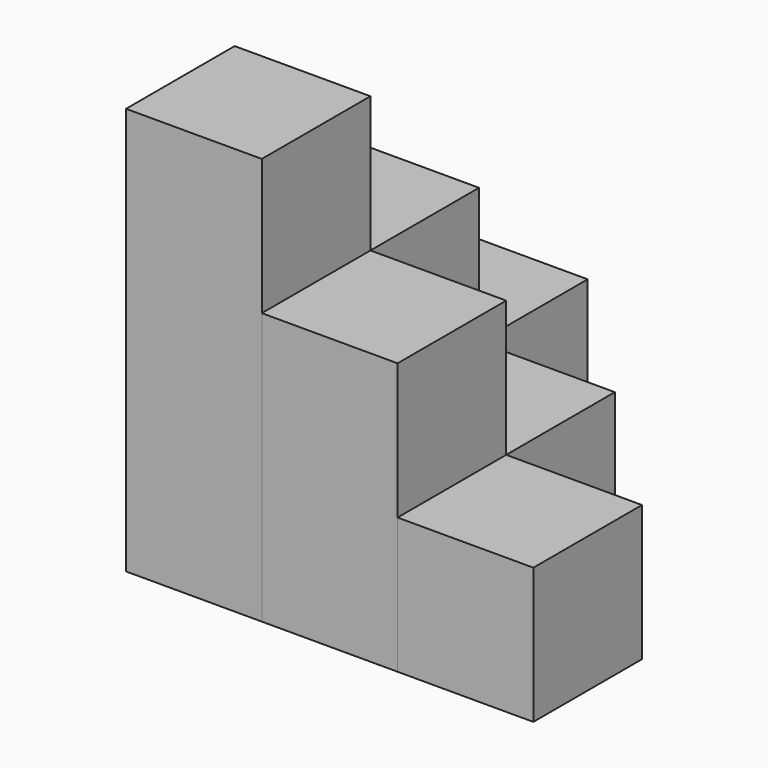
from build123d import *

# Parameters (mm, degrees)
BOX_W        = 10
BOX_H        = 10
BOX_DEPTH    = 30
BOX001_W     = 10
BOX001_H     = 10
BOX001_DEPTH = 20
BOX002_W     = 10
BOX002_H     = 10
BOX002_DEPTH = 20
BOX003_W     = 10
BOX003_H     = 10
BOX003_DEPTH = 10
BOX004_W     = 10
BOX004_H     = 10
BOX004_DEPTH = 10
BOX005_W     = 10
BOX005_H     = 10
BOX005_DEPTH = 10


with BuildPart() as box:
    # Box → Box (new body)
    with BuildSketch(Plane.XY):
        with Locations((5, 5)):
            Rectangle(BOX_W, BOX_H)
    extrude(amount=BOX_DEPTH)


with BuildPart() as box001:
    # Box001 → Box001 (new body)
    with BuildSketch(Plane(origin=(10, 0, 0), x_dir=(1, 0, 0), z_dir=(0, 0, 1))):
        with Locations((5, 5)):
            Rectangle(BOX001_W, BOX001_H)
    extrude(amount=BOX001_DEPTH)


with BuildPart() as box002:
    # Box002 → Box002 (new body)
    with BuildSketch(Plane(origin=(0, 10, 0), x_dir=(1, 0, 0), z_dir=(0, 0, 1))):
        with Locations((5, 5)):
            Rectangle(BOX002_W, BOX002_H)
    extrude(amount=BOX002_DEPTH)


with BuildPart() as cub:
    # Box003 → Box003 (new body)
    with BuildSketch(Plane(origin=(20, 0, 0), x_dir=(1, 0, 0), z_dir=(0, 0, 1))):
        with Locations((5, 5)):
            Rectangle(BOX003_W, BOX003_H)
    extrude(amount=BOX003_DEPTH)


with BuildPart() as cub001:
    # Box004 → Box004 (new body)
    with BuildSketch(Plane(origin=(0, 20, 0), x_dir=(1, 0, 0), z_dir=(0, 0, 1))):
        with Locations((5, 5)):
            Rectangle(BOX004_W, BOX004_H)
    extrude(amount=BOX004_DEPTH)


with BuildPart() as cub002:
    # Box005 → Box005 (new body)
    with BuildSketch(Plane(origin=(10, 10, 0), x_dir=(1, 0, 0), z_dir=(0, 0, 1))):
        with Locations((5, 5)):
            Rectangle(BOX005_W, BOX005_H)
    extrude(amount=BOX005_DEPTH)


solid = Compound([box.part, box001.part, box002.part, cub.part, cub001.part, cub002.part])
